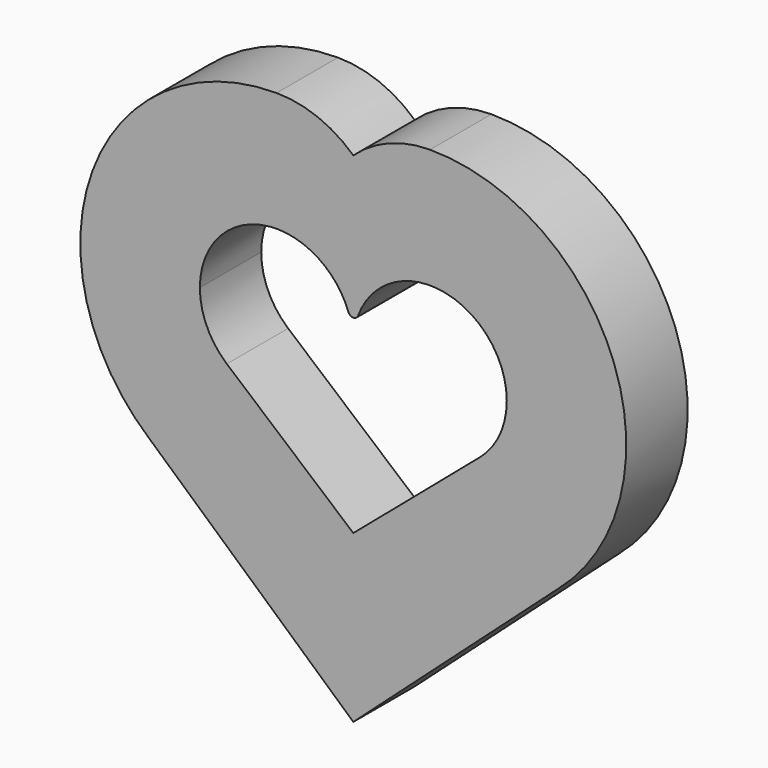
from build123d import *

# Parameters (mm, degrees)
F1_DEPTH = 38.1
F2_R     = 2.54


with BuildPart() as f1:
    # F0 (on Front) → F1 (new body)
    with BuildSketch(Plane.XZ):
        with BuildLine():
            Line((0, -82.55), (-62.818537, -28.993171))
            ThreePointArc((-62.818537, -28.993171), (-72.693253, -15.966117), (-76.2, 0))
            ThreePointArc((-76.2, 0), (-90.414977, 61.72931), (-38.1, 97.446484))
            ThreePointArc((-38.1, 97.446484), (-129.539011, 33.685671), (-101.317971, -74.157302))
            Line((-101.317971, -74.157302), (0, -165.1))
            Line((0, -165.1), (0, -82.55))
        make_face()
        with BuildLine():
            ThreePointArc((76.2, 0), (72.693253, -15.966117), (62.818537, -28.993171))
            Line((62.818537, -28.993171), (0, -82.55))
            Line((0, -82.55), (0, -165.1))
            Line((0, -165.1), (101.317932, -74.157335))
            ThreePointArc((101.317932, -74.157335), (129.53902, 33.685647), (38.1, 97.446484))
            ThreePointArc((38.1, 97.446484), (77.819237, 80.994237), (94.271484, 41.275))
            ThreePointArc((94.271484, 41.275), (89.555656, 18.746107), (76.2, 0))
        make_face()
        with BuildLine():
            ThreePointArc((18.071484, 41.275), (17.874678, 36.577013), (17.285638, 31.911946))
            ThreePointArc((17.285638, 31.911946), (28.71095, 36.925002), (41.143131, 37.978275))
            ThreePointArc((41.143131, 37.978275), (66.096011, 25.842472), (76.2, 0))
            ThreePointArc((76.2, 0), (89.555656, 18.746107), (94.271484, 41.275))
            ThreePointArc((94.271484, 41.275), (77.819237, 80.994237), (38.1, 97.446484))
            ThreePointArc((38.1, 97.446484), (17.64569, 93.589977), (0, 82.55))
            ThreePointArc((0, 82.55), (13.355656, 63.803893), (18.071484, 41.275))
        make_face()
        with BuildLine():
            ThreePointArc((-17.285638, 31.911946), (-4.598976, 18.146388), (0, 0))
            Line((0, 0), (0, 82.55))
            ThreePointArc((0, 82.55), (-15.059611, 59.421388), (-17.285638, 31.911946))
        make_face()
        with BuildLine():
            Line((0, 82.55), (0, 0))
            ThreePointArc((0, 0), (4.598976, 18.146388), (17.285638, 31.911946))
            ThreePointArc((17.285638, 31.911946), (17.874678, 36.577013), (18.071484, 41.275))
            ThreePointArc((18.071484, 41.275), (13.355656, 63.803893), (0, 82.55))
        make_face()
        with BuildLine():
            ThreePointArc((-41.143131, 37.978275), (-28.71095, 36.925002), (-17.285638, 31.911946))
            ThreePointArc((-17.285638, 31.911946), (-15.059611, 59.421388), (0, 82.55))
            ThreePointArc((0, 82.55), (-17.64569, 93.589977), (-38.1, 97.446484))
            ThreePointArc((-38.1, 97.446484), (-90.414977, 61.72931), (-76.2, 0))
            ThreePointArc((-76.2, 0), (-66.096011, 25.842472), (-41.143131, 37.978275))
        make_face()
    extrude(amount=F1_DEPTH)

    # F2
    f2_edges = [f1.edges().sort_by_distance(p)[0] for p in [
        (0, -19.05, 0),
    ]]
    fillet(f2_edges, radius=F2_R)


solid = f1.part
